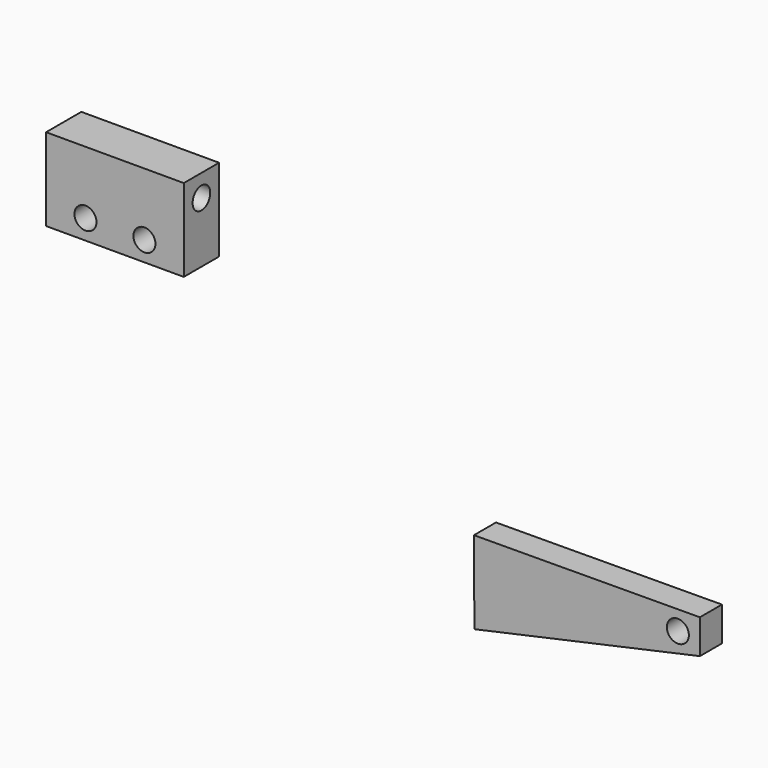
from build123d import *

# Parameters (mm, degrees)
F0_R     = 2
F1_DEPTH = 5
F2_W     = 25
F2_H     = 15
F2_R     = 2
F3_DEPTH = 8
F4_R     = 2
F5_DEPTH = 25


with BuildPart() as f1:
    # F0 (on Front) → F1 (new body)
    with BuildSketch(Plane.XZ):
        Polygon((36.647806, 7.697929), (-4.370547, 7.476518), (-4.289581, -7.523264), (36.647806, 1.480422), align=None)
        with Locations((32.647806, 4.176287)):
            Circle(F0_R, mode=Mode.SUBTRACT)
    extrude(amount=F1_DEPTH)


with BuildPart() as f3:
    # F2 (on Front) → F3 (new body)
    with BuildSketch(Plane.XZ):
        with Locations((-67.143897, 41.120185)):
            Rectangle(F2_W, F2_H)
        with Locations((-72.496566, 37.214023)):
            Circle(F2_R, mode=Mode.SUBTRACT)
        with Locations((-61.791227, 37.214023)):
            Circle(F2_R, mode=Mode.SUBTRACT)
    extrude(amount=F3_DEPTH)

    # F4 (on face) → F5 (cut)
    with BuildSketch(Plane(origin=(-79.643897, 0, 0), x_dir=(0, -1, 0), z_dir=(-1, 0, 0))):
        with Locations((4, 44.620185)):
            Circle(F4_R)
    extrude(amount=-F5_DEPTH, mode=Mode.SUBTRACT)


solid = Compound([f1.part, f3.part])
